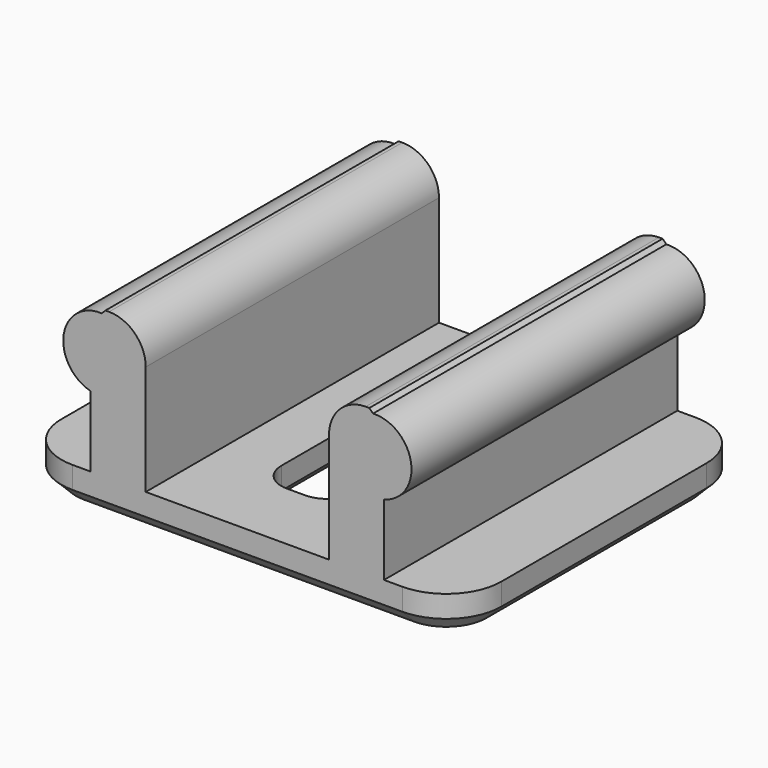
from build123d import *

# Parameters (mm, degrees)
BOX010_W                    = 2
BOX010_H                    = 6
BOX010_DEPTH                = 10
BOX008_W                    = 1.5
BOX008_H                    = 10
BOX008_DEPTH                = 5
CHAMFER004001002001005_SIZE = 0.4
CYLINDER004_R               = 1
CYLINDER004_DEPTH           = 10
CYLINDER003_R               = 1
CYLINDER003_DEPTH           = 10
BOX007_W                    = 12
BOX007_H                    = 10
BOX007_DEPTH                = 1
BOX009_W                    = 1.5
BOX009_H                    = 10
BOX009_DEPTH                = 5
CHAMFER004001002001006_SIZE = 0.4
FILLET_R                    = 0.75
FILLET001_R                 = 1.5
CHAMFER004001002001007_SIZE = 0.4
FILLET002_R                 = 1


with BuildPart() as cube010:
    # Box010 → Box010 (new body)
    with BuildSketch(Plane(origin=(-1, -3, 0), x_dir=(1, 0, 0), z_dir=(0, 0, 1))):
        with Locations((1, 3)):
            Rectangle(BOX010_W, BOX010_H)
    extrude(amount=BOX010_DEPTH)


with BuildPart() as chamfer004001002001005:
    # Box008 → Box008 (new body)
    with BuildSketch(Plane(origin=(-4, -5, 0), x_dir=(1, 0, 0), z_dir=(0, 0, 1))):
        with Locations((0.75, 5)):
            Rectangle(BOX008_W, BOX008_H)
    extrude(amount=BOX008_DEPTH)

    # Chamfer004001002001005
    chamfer004001002001005_edges = [chamfer004001002001005.edges().sort_by_distance(p)[0] for p in [
        (-4, 0, 5),
    ]]
    chamfer(chamfer004001002001005_edges, length=CHAMFER004001002001005_SIZE)


with BuildPart() as cylinder004:
    # Cylinder004 → Cylinder004 (new body)
    with BuildSketch(Plane(origin=(3.75, -5, 3.9), x_dir=(1, 0, 0), z_dir=(0, 1, 0))):
        Circle(CYLINDER004_R)
    extrude(amount=CYLINDER004_DEPTH)


with BuildPart() as cylinder003:
    # Cylinder003 → Cylinder003 (new body)
    with BuildSketch(Plane(origin=(-3.75, -5, 3.9), x_dir=(1, 0, 0), z_dir=(0, 1, 0))):
        Circle(CYLINDER003_R)
    extrude(amount=CYLINDER003_DEPTH)


with BuildPart() as cube007:
    # Box007 → Box007 (new body)
    with BuildSketch(Plane(origin=(-6, -5, 0), x_dir=(1, 0, 0), z_dir=(0, 0, 1))):
        with Locations((6, 5)):
            Rectangle(BOX007_W, BOX007_H)
    extrude(amount=BOX007_DEPTH)


with BuildPart() as cable_clip:
    # Box009 → Box009 (new body)
    with BuildSketch(Plane(origin=(2.5, -5, 0), x_dir=(1, 0, 0), z_dir=(0, 0, 1))):
        with Locations((0.75, 5)):
            Rectangle(BOX009_W, BOX009_H)
    extrude(amount=BOX009_DEPTH)

    # Chamfer004001002001006
    chamfer004001002001006_edges = [cable_clip.edges().sort_by_distance(p)[0] for p in [
        (4, 0, 5),
    ]]
    chamfer(chamfer004001002001006_edges, length=CHAMFER004001002001006_SIZE)

    # Fusion002: union Chamfer004001002001005, Cylinder004, Cylinder003, Cube007
    add(chamfer004001002001005.part)
    add(cylinder004.part)
    add(cylinder003.part)
    add(cube007.part)

    # Cut002008023012009006003002007003001002002: cut Cube010
    add(cube010.part, mode=Mode.SUBTRACT)

    # Fillet
    fillet_edges = [cable_clip.edges().sort_by_distance(p)[0] for p in [
        (1, -3, 0.5),
        (-1, -3, 0.5),
        (1, 3, 0.5),
        (-1, 3, 0.5),
    ]]
    fillet(fillet_edges, radius=FILLET_R)

    # Fillet001
    fillet001_edges = [cable_clip.edges().sort_by_distance(p)[0] for p in [
        (6, 5, 0.5),
        (-6, 5, 0.5),
        (6, -5, 0.5),
        (-6, -5, 0.5),
    ]]
    fillet(fillet001_edges, radius=FILLET001_R)

    # Chamfer004001002001007
    chamfer004001002001007_edges = [cable_clip.edges().sort_by_distance(p)[0] for p in [
        (4.25, -5, 0),
        (5.56066, -4.56066, 0),
        (6, 0, 0),
        (5.56066, 4.56066, 0),
        (3.25, 5, 0),
        (3.25, -5, 0),
        (0, 5, 0),
        (-1, 0, 0),
        (-0.78033, 2.78033, 0),
        (0, 3, 0),
        (0.78033, 2.78033, 0),
        (1, 0, 0),
        (0.78033, -2.78033, 0),
        (0, -3, 0),
        (-0.78033, -2.78033, 0),
        (0, -5, 0),
        (-3.25, 5, 0),
        (-3.25, -5, 0),
        (-4.25, 5, 0),
        (-5.56066, 4.56066, 0),
        (-6, 0, 0),
        (-5.56066, -4.56066, 0),
        (-4.25, -5, 0),
    ]]
    chamfer(chamfer004001002001007_edges, length=CHAMFER004001002001007_SIZE)

    # Fillet002
    fillet002_edges = [cable_clip.edges().sort_by_distance(p)[0] for p in [
        (2.5, 0, 5),
        (-2.5, 0, 5),
    ]]
    fillet(fillet002_edges, radius=FILLET002_R)


solid = cable_clip.part
